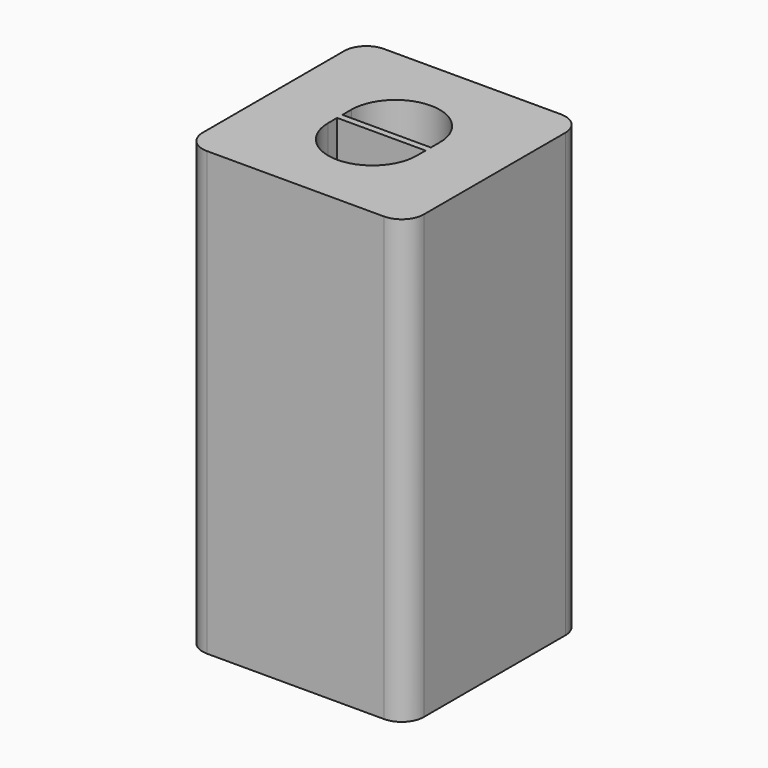
from build123d import *

# Parameters (mm, degrees)
F0_W     = 10
F0_H     = 10
F0_W_2   = 4
F0_H_2   = 0.3
F1_DEPTH = 9
F2_DEPTH = 2
F3_W     = 10
F3_H     = 10
F4_DEPTH = 9
F6_R     = 1


with BuildPart() as f1:
    # F0 (on Top) → F1 (new body)
    with BuildSketch(Plane.XY):
        with Locations((-0.546654, -0.073579)):
            Rectangle(F0_W, F0_H)
        with BuildLine():
            Line((1.453346, 0.076421), (1.453346, -0.223579))
            Line((1.453346, -0.223579), (1.453346, -0.723579))
            ThreePointArc((1.453346, -0.723579), (-0.546654, -2.723579), (-2.546654, -0.723579))
            Line((-2.546654, -0.723579), (-2.546654, -0.223579))
            Line((-2.546654, -0.223579), (-2.546654, 0.076421))
            Line((-2.546654, 0.076421), (-2.546654, 0.576421))
            ThreePointArc((-2.546654, 0.576421), (-0.546654, 2.576421), (1.453346, 0.576421))
            Line((1.453346, 0.576421), (1.453346, 0.076421))
        make_face(mode=Mode.SUBTRACT)
        with Locations((-0.546654, -0.073579)):
            Rectangle(F0_W_2, F0_H_2)
    extrude(amount=F1_DEPTH)

    # F0 (on Top) → F2 (join)
    with BuildSketch(Plane.XY):
        with Locations((-0.546654, -0.073579)):
            Rectangle(F0_W, F0_H)
        with BuildLine():
            Line((1.453346, 0.076421), (1.453346, -0.223579))
            Line((1.453346, -0.223579), (1.453346, -0.723579))
            ThreePointArc((1.453346, -0.723579), (-0.546654, -2.723579), (-2.546654, -0.723579))
            Line((-2.546654, -0.723579), (-2.546654, -0.223579))
            Line((-2.546654, -0.223579), (-2.546654, 0.076421))
            Line((-2.546654, 0.076421), (-2.546654, 0.576421))
            ThreePointArc((-2.546654, 0.576421), (-0.546654, 2.576421), (1.453346, 0.576421))
            Line((1.453346, 0.576421), (1.453346, 0.076421))
        make_face(mode=Mode.SUBTRACT)
        with BuildLine():
            Line((1.453346, -0.723579), (1.453346, -0.223579))
            Line((1.453346, -0.223579), (-2.546654, -0.223579))
            Line((-2.546654, -0.223579), (-2.546654, -0.723579))
            ThreePointArc((-2.546654, -0.723579), (-0.546654, -2.723579), (1.453346, -0.723579))
        make_face()
        with Locations((-0.546654, -0.073579)):
            Rectangle(F0_W_2, F0_H_2)
        with BuildLine():
            Line((-2.546654, 0.076421), (1.453346, 0.076421))
            Line((1.453346, 0.076421), (1.453346, 0.576421))
            ThreePointArc((1.453346, 0.576421), (-0.546654, 2.576421), (-2.546654, 0.576421))
            Line((-2.546654, 0.576421), (-2.546654, 0.076421))
        make_face()
    extrude(amount=-F2_DEPTH)


with BuildPart() as f4:
    # F3 (on face) → F4 (new body)
    with BuildSketch(Plane(origin=(0, 0, -2), x_dir=(1, 0, 0), z_dir=(0, 0, -1))):
        with Locations((-0.546654, 0.073579)):
            Rectangle(F3_W, F3_H)
        with BuildLine():
            ThreePointArc((-2.719987, 0.655922), (-0.25297, 2.30433), (1.703346, 0.073579))
            ThreePointArc((1.703346, 0.073579), (1.684097, -0.220104), (1.626679, -0.508763))
            ThreePointArc((1.626679, -0.508763), (-1.128997, -2.099754), (-2.719987, 0.655922))
        make_face(mode=Mode.SUBTRACT)
        with BuildLine():
            ThreePointArc((1.626679, -0.508763), (1.684097, -0.220104), (1.703346, 0.073579))
            ThreePointArc((1.703346, 0.073579), (-0.25297, 2.30433), (-2.719987, 0.655922))
            Line((-2.719987, 0.655922), (1.626679, -0.508763))
        make_face()
    extrude(amount=F4_DEPTH)


with BuildPart() as f1_1:
    add(f1.part)

    # F5: union F4
    add(f4.part)

    # F6
    f6_edges = [f1_1.edges().sort_by_distance(p)[0] for p in [
        (-5.546654, 4.926421, -1),
        (4.453346, 4.926421, -1),
        (4.453346, -5.073579, -1),
        (-5.546654, -5.073579, -1),
    ]]
    fillet(f6_edges, radius=F6_R)


solid = f1_1.part
